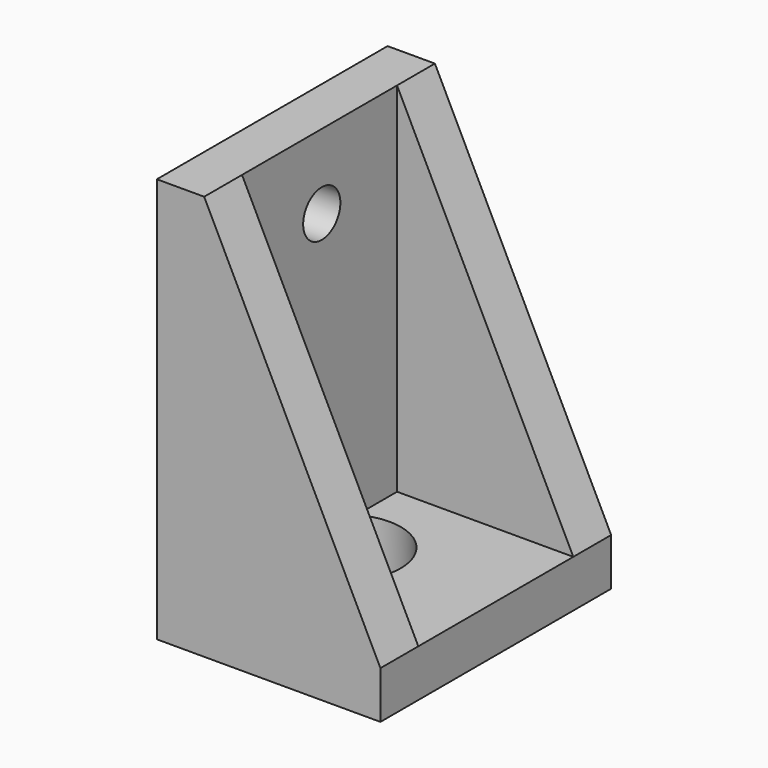
from build123d import *

# Parameters (mm, degrees)
F1_DEPTH = 13
F3_DEPTH = 3.175
F5_DEPTH = 3.175
F6_R     = 3.75
F7_DEPTH = 3.176
F8_R     = 1.56
F9_DEPTH = 3.176


with BuildPart() as f1:
    # F0 (on Front) → F1 (new body)
    with BuildSketch(Plane.XZ):
        Polygon((0, 24), (-3.175, 24), (-3.175, -3.175), (11.825, -3.175), (11.825, 0), (0, 0), align=None)
    extrude(amount=F1_DEPTH)

    # F2 (on face) → F3 (join)
    with BuildSketch(Plane.XZ.offset(13)):
        Polygon((0, 24), (-3.175, 24), (-3.175, -3.175), (11.825, -3.175), (11.825, 0), align=None)
    extrude(amount=F3_DEPTH)

    # F4 (on face) → F5 (join)
    with BuildSketch(Plane(origin=(0, 0, 0), x_dir=(-1, 0, 0), z_dir=(0, 1, 0))):
        Polygon((3.175, -3.175), (3.175, 24), (0, 24), (-11.825, 0), (-11.825, -3.175), align=None)
    extrude(amount=F5_DEPTH)

    # F6 (on face) → F7 (cut, through all)
    with BuildSketch(Plane.XY):
        with Locations((1.825, -6.65)):
            Circle(F6_R)
    extrude(amount=-F7_DEPTH, mode=Mode.SUBTRACT)

    # F8 (on face) → F9 (cut, through all)
    with BuildSketch(Plane.YZ):
        with Locations((-6.313409, 19)):
            Circle(F8_R)
    extrude(amount=-F9_DEPTH, mode=Mode.SUBTRACT)


solid = f1.part
